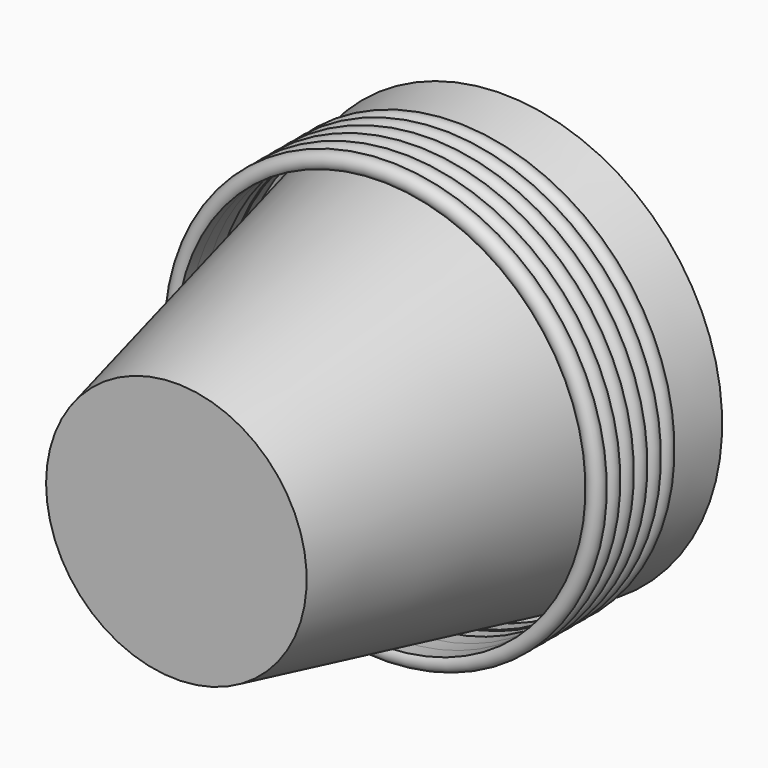
from build123d import *


with BuildPart() as f1:
    # F0 (on Top) → F1 (revolve)
    with BuildSketch(Plane.XY):
        Polygon((-38.6514477432, 39.5538173616), (-43.7648706138, 39.5538173616), (-41.4051810003, 28.7152434676), (-40.8152587359, 26.0056006323), (-26.0182898492, -41.9601351023), (0, -41.9601351023), (0, -36.228234955), (-22.1527714884, -36.228234955), align=None)
        with BuildLine():
            Line((-40.8152587359, 26.0056006323), (-41.4051810003, 28.7152434676))
            ThreePointArc((-41.4051810003, 28.7152434676), (-43.6548707754, 26.8064205388), (-40.8152587359, 26.0056006323))
        make_face()
    revolve(axis=Axis((0, -39.0941850286, 0), (0, -1, 0)))


with BuildPart() as f1b:
    # F0 (on Top) → F1, piece 2 (revolve)
    with BuildSketch(Plane.XY):
        with BuildLine():
            Line((-40.8152587359, 9.1146006323), (-40.9340193967, 12.3804343653))
            ThreePointArc((-40.9340193967, 12.3804343653), (-41.1578029934, 12.2186071845), (-41.4051810003, 12.0958421396))
            Line((-41.4051810003, 12.0958421396), (-41.4051810003, 11.8242434676))
            ThreePointArc((-41.4051810003, 11.8242434676), (-43.6548707754, 9.9154205388), (-40.8152587359, 9.1146006323))
        make_face()
        with BuildLine():
            Line((-41.4051810003, 12.0958421396), (-41.4051810003, 15.2024434676))
            ThreePointArc((-41.4051810003, 15.2024434676), (-43.6931235063, 13.6491428036), (-41.4051810003, 12.0958421396))
        make_face()
        with BuildLine():
            Line((-41.4051810003, 15.4740421396), (-41.4051810003, 18.5806434676))
            ThreePointArc((-41.4051810003, 18.5806434676), (-43.6931235063, 17.0273428036), (-41.4051810003, 15.4740421396))
        make_face()
        with BuildLine():
            Line((-40.9340193967, 12.3804343653), (-41.0534710109, 15.665268825))
            ThreePointArc((-41.0534710109, 15.665268825), (-41.2235794552, 15.5590862505), (-41.4051810003, 15.4740421396))
            Line((-41.4051810003, 15.4740421396), (-41.4051810003, 15.2024434676))
            Line((-41.4051810003, 15.2024434676), (-41.4051810003, 12.0958421396))
            ThreePointArc((-41.4051810003, 12.0958421396), (-41.1578029934, 12.2186071845), (-40.9340193967, 12.3804343653))
        make_face()
        with BuildLine():
            Line((-41.0534710109, 15.665268825), (-41.173487964, 18.9656497018))
            ThreePointArc((-41.173487964, 18.9656497018), (-41.2871431355, 18.9044689727), (-41.4051810003, 18.8522421396))
            Line((-41.4051810003, 18.8522421396), (-41.4051810003, 18.5806434676))
            Line((-41.4051810003, 18.5806434676), (-41.4051810003, 15.4740421396))
            ThreePointArc((-41.4051810003, 15.4740421396), (-41.2235794552, 15.5590862505), (-41.0534710109, 15.665268825))
        make_face()
    revolve(axis=Axis((0, -39.0941850286, 0), (0, -1, 0)))


with BuildPart() as f1c:
    # F0 (on Top) → F1, piece 3 (revolve)
    with BuildSketch(Plane.XY):
        with BuildLine():
            Line((-41.2939888176, 22.2793375008), (-41.4051810003, 25.3370434676))
            ThreePointArc((-41.4051810003, 25.3370434676), (-43.6920195887, 23.723008839), (-41.2939888176, 22.2793375008))
        make_face()
    revolve(axis=Axis((0, -39.0941850286, 0), (0, -1, 0)))


with BuildPart() as f1d:
    # F0 (on Top) → F1, piece 4 (revolve)
    with BuildSketch(Plane.XY):
        with BuildLine():
            ThreePointArc((-41.4051810003, 21.9588434676), (-43.6931235063, 20.4055428036), (-41.4051810003, 18.8522421396))
            Line((-41.4051810003, 18.8522421396), (-41.4051810003, 21.9588434676))
        make_face()
    revolve(axis=Axis((0, -39.0941850286, 0), (0, -1, 0)))


solid = Compound([f1.part, f1b.part, f1c.part, f1d.part])
